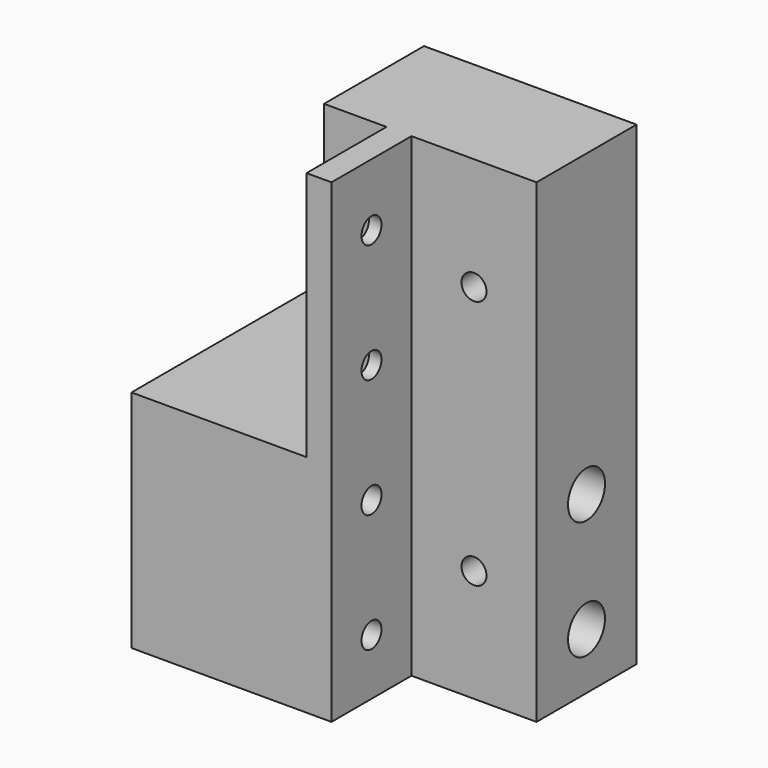
from build123d import *

# Parameters (mm, degrees)
CYLINDER007_R     = 5.5
CYLINDER007_DEPTH = 2
CYLINDER001_R     = 2
CYLINDER001_DEPTH = 32
CYLINDER006_R     = 5.5
CYLINDER006_DEPTH = 2
CYLINDER_R        = 2
CYLINDER_DEPTH    = 32
CYLINDER011_R     = 2
CYLINDER011_DEPTH = 20
CYLINDER013_R     = 5.5
CYLINDER013_DEPTH = 2
CYLINDER008_R     = 5.5
CYLINDER008_DEPTH = 2
CYLINDER002_R     = 2
CYLINDER002_DEPTH = 4
CYLINDER012_R     = 2
CYLINDER012_DEPTH = 20
CYLINDER010_R     = 5.5
CYLINDER010_DEPTH = 2
CYLINDER009_R     = 5.5
CYLINDER009_DEPTH = 2
CYLINDER003_R     = 2
CYLINDER003_DEPTH = 4
CYLINDER004_R     = 2.2
CYLINDER004_DEPTH = 22
CYLINDER015_R     = 3.7
CYLINDER015_DEPTH = 30
CYLINDER014_R     = 3.7
CYLINDER014_DEPTH = 30
CYLINDER005_R     = 2.2
CYLINDER005_DEPTH = 22
BOX002_W          = 20
BOX002_H          = 4
BOX002_DEPTH      = 76
BOX005_W          = 20
BOX005_H          = 12
BOX005_DEPTH      = 40
BOX011_W          = 18
BOX011_H          = 12
BOX011_DEPTH      = 36
BOX009_W          = 0.3
BOX009_H          = 12
BOX009_DEPTH      = 1
BOX_W             = 20
BOX_H             = 4
BOX_DEPTH         = 76
BOX012_W          = 10
BOX012_H          = 20
BOX012_DEPTH      = 40
BOX010_W          = 28
BOX010_H          = 36
BOX010_DEPTH      = 36
BOX001_W          = 4
BOX001_H          = 36
BOX001_DEPTH      = 76
CHAMFER_SIZE      = 5


with BuildPart() as cylinder007:
    # Cylinder007 → Cylinder007 (new body)
    with BuildSketch(Plane(origin=(-24, -24, 28), x_dir=(0, 0, -1), z_dir=(1, 0, 0))):
        Circle(CYLINDER007_R)
    extrude(amount=CYLINDER007_DEPTH)


with BuildPart() as fusion:
    # Cylinder001 → Cylinder001 (new body)
    with BuildSketch(Plane(origin=(-24, -24, 28), x_dir=(0, 0, -1), z_dir=(1, 0, 0))):
        Circle(CYLINDER001_R)
    extrude(amount=CYLINDER001_DEPTH)

    # Fusion: union Cylinder007
    add(cylinder007.part)


with BuildPart() as fusion_1:
    # Fusion placement: moved
    add(fusion.part.moved(Location((-8, 0, 0))))


with BuildPart() as cylinder006:
    # Cylinder006 → Cylinder006 (new body)
    with BuildSketch(Plane(origin=(-24, -24, 9), x_dir=(0, 0, -1), z_dir=(1, 0, 0))):
        Circle(CYLINDER006_R)
    extrude(amount=CYLINDER006_DEPTH)


with BuildPart() as fusion005:
    # Cylinder → Cylinder (new body)
    with BuildSketch(Plane(origin=(-24, -24, 9), x_dir=(0, 0, -1), z_dir=(1, 0, 0))):
        Circle(CYLINDER_R)
    extrude(amount=CYLINDER_DEPTH)

    # Fusion005: union Cylinder006
    add(cylinder006.part)


with BuildPart() as fusion005_1:
    # Fusion005 placement: moved
    add(fusion005.part.moved(Location((-8, 0, 0))))


with BuildPart() as cylinder011:
    # Cylinder011 → Cylinder011 (new body)
    with BuildSketch(Plane(origin=(10, 4, 58), x_dir=(1, 0, 0), z_dir=(0, -1, 0))):
        Circle(CYLINDER011_R)
    extrude(amount=CYLINDER011_DEPTH)


with BuildPart() as fusion012:
    # Cylinder013 → Cylinder013 (new body)
    with BuildSketch(Plane(origin=(10, 4, 58), x_dir=(1, 0, 0), z_dir=(0, -1, 0))):
        Circle(CYLINDER013_R)
    extrude(amount=CYLINDER013_DEPTH)

    # Fusion012: union Cylinder011
    add(cylinder011.part)


with BuildPart() as cylinder008:
    # Cylinder008 → Cylinder008 (new body)
    with BuildSketch(Plane(origin=(-4, -24, 47), x_dir=(0, 0, -1), z_dir=(1, 0, 0))):
        Circle(CYLINDER008_R)
    extrude(amount=CYLINDER008_DEPTH)


with BuildPart() as fusion007:
    # Cylinder002 → Cylinder002 (new body)
    with BuildSketch(Plane(origin=(-4, -24, 47), x_dir=(0, 0, -1), z_dir=(1, 0, 0))):
        Circle(CYLINDER002_R)
    extrude(amount=CYLINDER002_DEPTH)

    # Fusion007: union Cylinder008
    add(cylinder008.part)


with BuildPart() as cylinder012:
    # Cylinder012 → Cylinder012 (new body)
    with BuildSketch(Plane(origin=(10, 4, 18), x_dir=(1, 0, 0), z_dir=(0, -1, 0))):
        Circle(CYLINDER012_R)
    extrude(amount=CYLINDER012_DEPTH)


with BuildPart() as fusion011:
    # Cylinder010 → Cylinder010 (new body)
    with BuildSketch(Plane(origin=(10, 4, 18), x_dir=(1, 0, 0), z_dir=(0, -1, 0))):
        Circle(CYLINDER010_R)
    extrude(amount=CYLINDER010_DEPTH)

    # Fusion011: union Cylinder012
    add(cylinder012.part)


with BuildPart() as cylinder009:
    # Cylinder009 → Cylinder009 (new body)
    with BuildSketch(Plane(origin=(-4, -24, 66), x_dir=(0, 0, -1), z_dir=(1, 0, 0))):
        Circle(CYLINDER009_R)
    extrude(amount=CYLINDER009_DEPTH)


with BuildPart() as fusion006:
    # Cylinder003 → Cylinder003 (new body)
    with BuildSketch(Plane(origin=(-4, -24, 66), x_dir=(0, 0, -1), z_dir=(1, 0, 0))):
        Circle(CYLINDER003_R)
    extrude(amount=CYLINDER003_DEPTH)

    # Fusion006: union Cylinder009
    add(cylinder009.part)


with BuildPart() as cylinder004:
    # Cylinder004 → Cylinder004 (new body)
    with BuildSketch(Plane(origin=(-32, -6, 9), x_dir=(0, 0, -1), z_dir=(1, 0, 0))):
        Circle(CYLINDER004_R)
    extrude(amount=CYLINDER004_DEPTH)


with BuildPart() as fusion013:
    # Cylinder015 → Cylinder015 (new body)
    with BuildSketch(Plane(origin=(-10, -6, 9), x_dir=(0, 0, -1), z_dir=(1, 0, 0))):
        Circle(CYLINDER015_R)
    extrude(amount=CYLINDER015_DEPTH)

    # Fusion013: union Cylinder004
    add(cylinder004.part)


with BuildPart() as cylinder014:
    # Cylinder014 → Cylinder014 (new body)
    with BuildSketch(Plane(origin=(-10, -6, 28), x_dir=(0, 0, -1), z_dir=(1, 0, 0))):
        Circle(CYLINDER014_R)
    extrude(amount=CYLINDER014_DEPTH)


with BuildPart() as fusion014:
    # Cylinder005 → Cylinder005 (new body)
    with BuildSketch(Plane(origin=(-32, -6, 28), x_dir=(0, 0, -1), z_dir=(1, 0, 0))):
        Circle(CYLINDER005_R)
    extrude(amount=CYLINDER005_DEPTH)

    # Fusion014: union Cylinder014
    add(cylinder014.part)


with BuildPart() as cube002:
    # Box002 → Box002 (new body)
    with BuildSketch(Plane(origin=(0, -16, 0), x_dir=(1, 0, 0), z_dir=(0, 0, 1))):
        with Locations((10, 2)):
            Rectangle(BOX002_W, BOX002_H)
    extrude(amount=BOX002_DEPTH)


with BuildPart() as cube005:
    # Box005 → Box005 (new body)
    with BuildSketch(Plane(origin=(0, -12, 36), x_dir=(1, 0, 0), z_dir=(0, 0, 1))):
        with Locations((10, 6)):
            Rectangle(BOX005_W, BOX005_H)
    extrude(amount=BOX005_DEPTH)


with BuildPart() as cube011:
    # Box011 → Box011 (new body)
    with BuildSketch(Plane(origin=(2, -12, 0), x_dir=(1, 0, 0), z_dir=(0, 0, 1))):
        with Locations((9, 6)):
            Rectangle(BOX011_W, BOX011_H)
    extrude(amount=BOX011_DEPTH)


with BuildPart() as cube009:
    # Box009 → Box009 (new body)
    with BuildSketch(Plane(origin=(0, -12, 0), x_dir=(1, 0, 0), z_dir=(0, 0, 1))):
        with Locations((0.15, 6)):
            Rectangle(BOX009_W, BOX009_H)
    extrude(amount=BOX009_DEPTH)


with BuildPart() as cube:
    # Box → Box (new body)
    with BuildSketch(Plane.XY):
        with Locations((10, 2)):
            Rectangle(BOX_W, BOX_H)
    extrude(amount=BOX_DEPTH)


with BuildPart() as cube012:
    # Box012 → Box012 (new body)
    with BuildSketch(Plane(origin=(-14, -16, 36), x_dir=(1, 0, 0), z_dir=(0, 0, 1))):
        with Locations((5, 10)):
            Rectangle(BOX012_W, BOX012_H)
    extrude(amount=BOX012_DEPTH)


with BuildPart() as cube010:
    # Box010 → Box010 (new body)
    with BuildSketch(Plane(origin=(-32, -32, 0), x_dir=(1, 0, 0), z_dir=(0, 0, 1))):
        with Locations((14, 18)):
            Rectangle(BOX010_W, BOX010_H)
    extrude(amount=BOX010_DEPTH)


with BuildPart() as chamfer_body:
    # Box001 → Box001 (new body)
    with BuildSketch(Plane(origin=(-4, -32, 0), x_dir=(1, 0, 0), z_dir=(0, 0, 1))):
        with Locations((2, 18)):
            Rectangle(BOX001_W, BOX001_H)
    extrude(amount=BOX001_DEPTH)

    # Fusion015: union Cube002, Cube005, Cube011, Cube009, Cube, Cube012, Cube010
    add(cube002.part)
    add(cube005.part)
    add(cube011.part)
    add(cube009.part)
    add(cube.part)
    add(cube012.part)
    add(cube010.part)

    # Cut: cut Fusion014
    add(fusion014.part, mode=Mode.SUBTRACT)

    # Cut001: cut Fusion013
    add(fusion013.part, mode=Mode.SUBTRACT)

    # Cut002: cut Fusion006
    add(fusion006.part, mode=Mode.SUBTRACT)

    # Cut003: cut Fusion011
    add(fusion011.part, mode=Mode.SUBTRACT)

    # Cut004: cut Fusion007
    add(fusion007.part, mode=Mode.SUBTRACT)

    # Cut005: cut Fusion012
    add(fusion012.part, mode=Mode.SUBTRACT)

    # Cut006: cut Fusion005
    add(fusion005_1.part, mode=Mode.SUBTRACT)

    # Cut007: cut Fusion
    add(fusion_1.part, mode=Mode.SUBTRACT)

    # Chamfer
    chamfer_edges = [chamfer_body.edges().sort_by_distance(p)[0] for p in [
        (-32, -6, 11.2),
        (-32, -6, 30.2),
    ]]
    chamfer(chamfer_edges, length=CHAMFER_SIZE)


solid = chamfer_body.part
